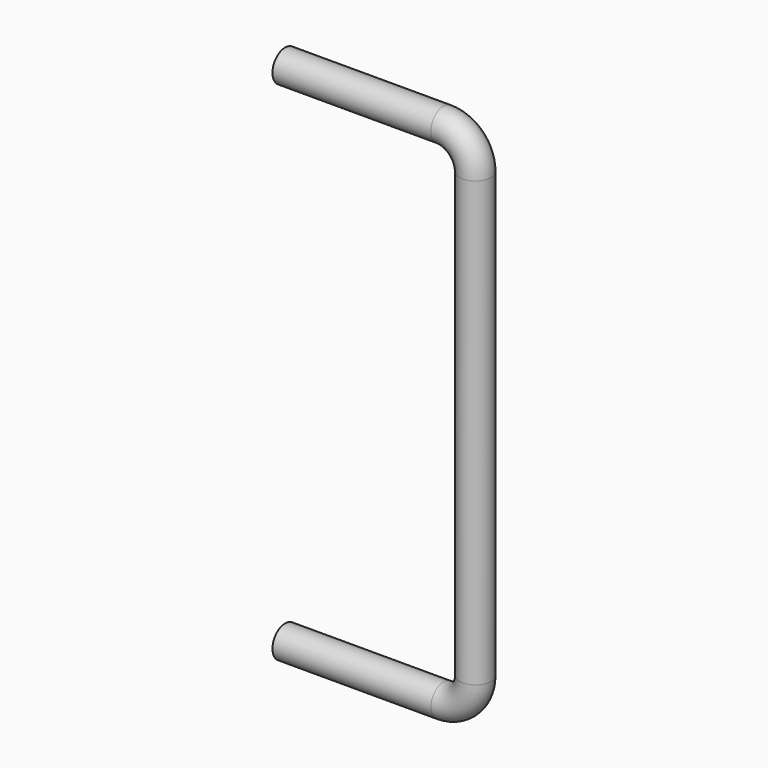
from build123d import *

# Parameters (mm, degrees)
F1_R = 3.175


with BuildPart() as f2:
    # F2: sweep along a path in F0
    with BuildLine(Plane.XZ) as f2_path:
        Line((0, 101.6), (31.75, 101.6))
        ThreePointArc((31.75, 101.6), (36.240128, 99.740128), (38.1, 95.25))
        Line((38.1, 95.25), (38.1, 6.35))
        ThreePointArc((38.1, 6.35), (36.240128, 1.859872), (31.75, 0))
        Line((31.75, 0), (0, 0))
    # F1 (on Right) → F2 (sweep)
    with BuildSketch(Plane.YZ):
        with Locations((0, 101.6)):
            Circle(F1_R)
    sweep(path=f2_path.line)


solid = f2.part
